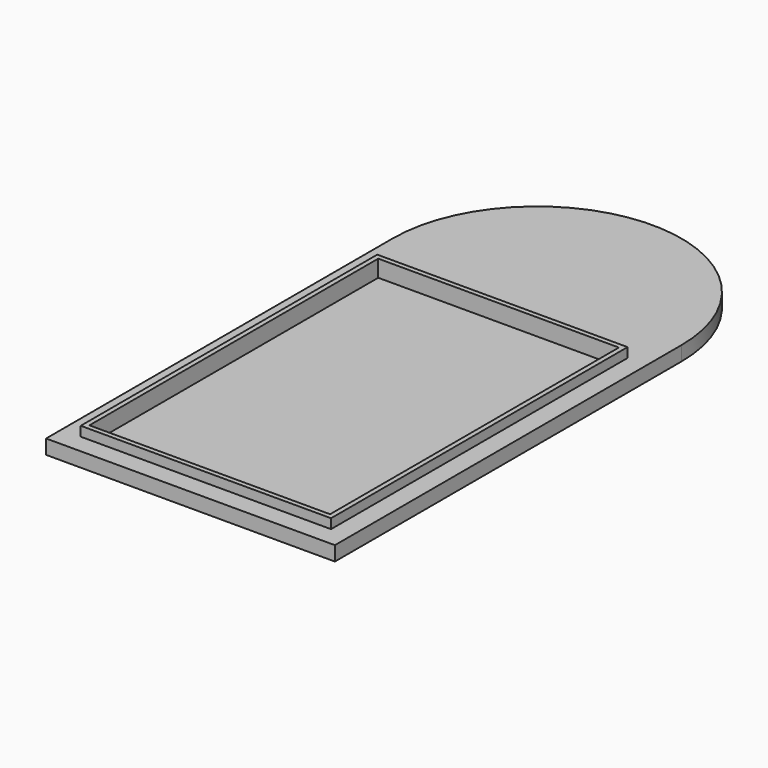
from build123d import *

# Parameters (mm, degrees)
F1_DEPTH = 3
F0_W     = 50
F0_H     = 75
F2_DEPTH = 1.5
F3_DEPTH = 5


with BuildPart() as f1:
    # F0 (on Top) → F1 (new body)
    with BuildSketch(Plane.XY):
        Polygon((55, -5), (55, 0), (55, 85), (-5, 85), (-5, 0), (-5, -5), align=None)
        Polygon((51, 76), (51, 0), (51, -1), (-1, -1), (-1, 76), align=None, mode=Mode.SUBTRACT)
        with BuildLine():
            Line((-5, 85), (55, 85))
            ThreePointArc((55, 85), (25, 115), (-5, 85))
        make_face()
    extrude(amount=F1_DEPTH)



with BuildPart() as f2:
    # F0 (on Top) → F2 (new body)
    with BuildSketch(Plane.XY):
        with Locations((25, 37.5)):
            Rectangle(F0_W, F0_H)
    extrude(amount=F2_DEPTH)


with BuildPart() as f1_1:
    add(f1.part)

    add(f2.part)  # F3 merges F2
    # F0 (on Top) → F3 (join)
    with BuildSketch(Plane.XY):
        Polygon((51, -1), (51, 0), (51, 76), (-1, 76), (-1, -1), align=None)
        with Locations((25, 37.5)):
            Rectangle(F0_W, F0_H, mode=Mode.SUBTRACT)
    extrude(amount=F3_DEPTH)


solid = f1_1.part
